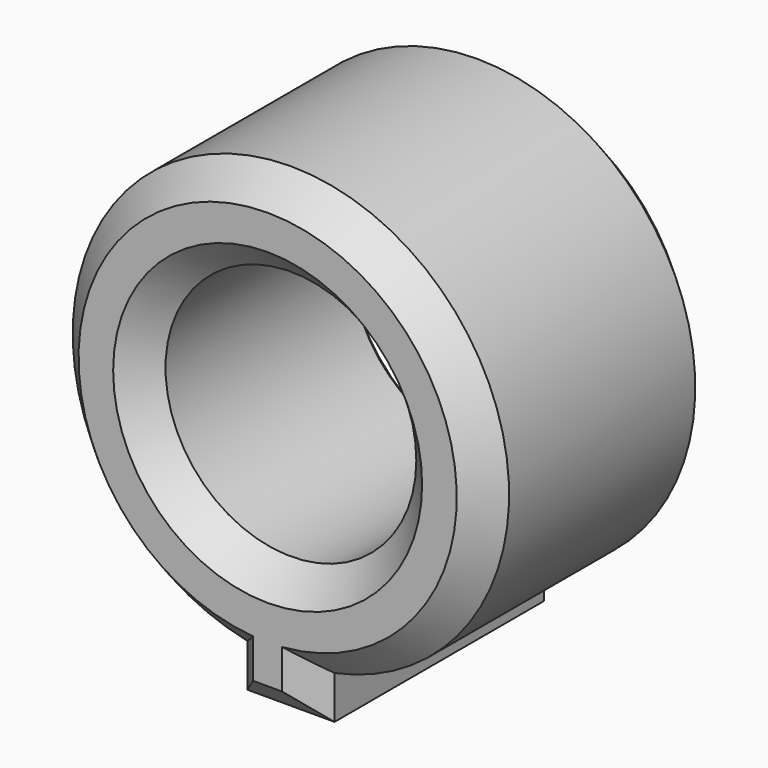
from build123d import *

# Parameters (mm, degrees)
F1_R     = 1.09485
F2_DEPTH = 2.54
F0_SIZE  = 0.254


with BuildPart() as f2:
    # F1 (on Front) → F2 (new body)
    with BuildSketch(Plane.XZ):
        with BuildLine():
            Line((0.381, -2.242438), (0.381, -1.866511))
            ThreePointArc((0.381, -1.866511), (0, 1.905), (-0.381, -1.866511))
            Line((-0.381, -1.866511), (-0.381, -2.242438))
            Line((-0.381, -2.242438), (0.381, -2.242438))
        make_face()
        Circle(F1_R, mode=Mode.SUBTRACT)
    extrude(amount=F2_DEPTH)

    # F0
    f0_edges = [f2.edges().sort_by_distance(p)[0] for p in [
        (-1.09485, -2.54, 0),
        (-1.09485, 0, 0),
        (0, 0, 1.905),
        (-0.381, -2.54, -2.054475),
        (0, -2.54, -2.242438),
        (0.381, -2.54, -2.054475),
        (0, -2.54, 1.905),
    ]]
    chamfer(f0_edges, length=F0_SIZE)


solid = f2.part
